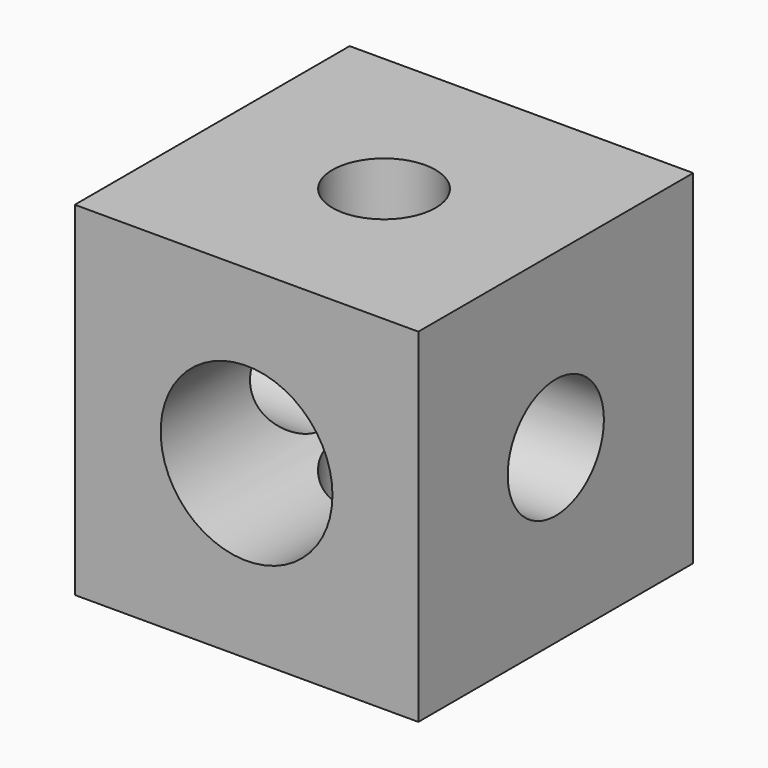
from build123d import *

# Parameters (mm, degrees)
F0_W     = 20
F0_H     = 20
F1_DEPTH = 20
F2_R     = 3
F3_DEPTH = 25
F4_R     = 3.5
F5_DEPTH = 25
F6_R     = 5
F7_DEPTH = 25


with BuildPart() as f1:
    # F0 (on Front) → F1 (new body)
    with BuildSketch(Plane.XZ):
        with Locations((15.513396, -6.90791)):
            Rectangle(F0_W, F0_H)
    extrude(amount=F1_DEPTH)

    # F2 (on face) → F3 (cut)
    with BuildSketch(Plane.XY.offset(3.09209)):
        with Locations((15.513396, -10)):
            Circle(F2_R)
    extrude(amount=-F3_DEPTH, mode=Mode.SUBTRACT)

    # F4 (on face) → F5 (cut)
    with BuildSketch(Plane.YZ.offset(25.513396)):
        with Locations((-10, -6.90791)):
            Circle(F4_R)
    extrude(amount=-F5_DEPTH, mode=Mode.SUBTRACT)

    # F6 (on face) → F7 (cut)
    with BuildSketch(Plane.XZ.offset(20)):
        with Locations((15.513396, -6.90791)):
            Circle(F6_R)
    extrude(amount=-F7_DEPTH, mode=Mode.SUBTRACT)


solid = f1.part
